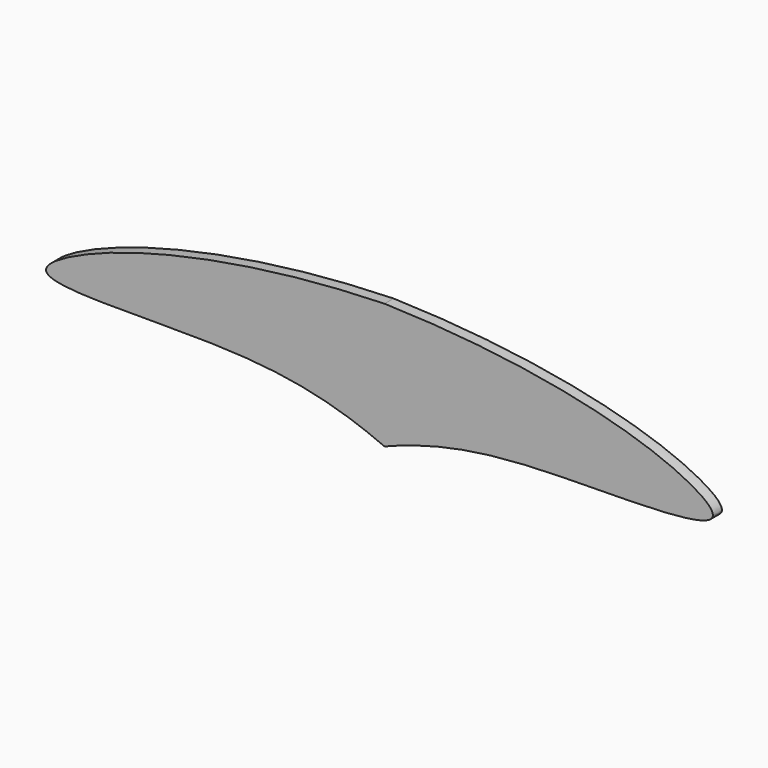
from build123d import *

# Parameters (mm, degrees)
F1_DEPTH = 3


with BuildPart() as f1:
    # F0 (on Front) → F1 (new body)
    with BuildSketch(Plane.XZ):
        with BuildLine():
            add(Edge.make_bspline(
                [(0, 21.0483856499), (36.2162065975, 20.0814587553), (74.7143821988, 11.2429480236), (94.4888996782, -3.854469111), (46.9438099096, -3.8595081741), (18.6445481272, -4.8802098668), (0, -12.3387100175)],
                knots=[0, 0, 0, 0, 0.3535622479, 0.4813979793, 0.7108080973, 1, 1, 1, 1], degree=3))
            add(Edge.make_bspline(
                [(0, 21.0483856499), (-36.6706796225, 20.0728894225), (-77.0489443035, 10.2980585125), (-97.8106487007, -4.3278873534), (-44.2196067106, -1.8462784204), (-16.9970384409, -4.917671701), (0, -12.3387100175)],
                knots=[0, 0, 0, 0, 0.3545539907, 0.4784417888, 0.7212035167, 1, 1, 1, 1], degree=3))
        make_face()
    extrude(amount=F1_DEPTH)


solid = f1.part
